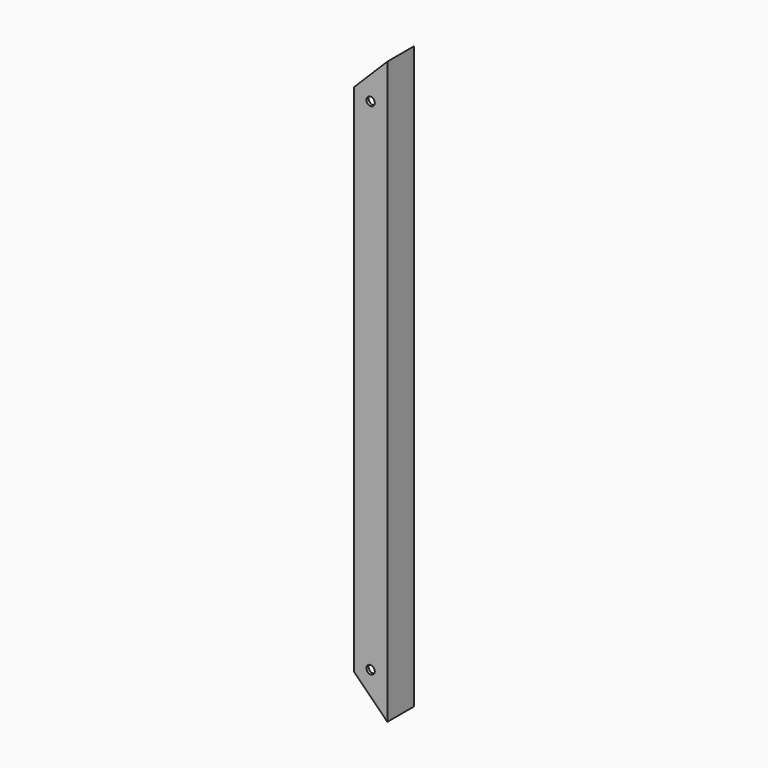
from build123d import *

# Parameters (mm, degrees)
F1_DEPTH = 660.4
F3_DEPTH = 38.101
F4_R     = 4.7625
F5_DEPTH = 38.101


with BuildPart() as f1:
    # F0 (on Top) → F1 (new body)
    with BuildSketch(Plane.XY):
        Polygon((0, 3.175), (0, 0), (38.1, 0), (38.1, 38.1), (34.925, 38.1), (34.925, 3.175), align=None)
    extrude(amount=F1_DEPTH)

    # F2 (on face) → F3 (cut, through all)
    with BuildSketch(Plane.XZ):
        Polygon((0, 622.3), (38.1, 660.4), (0, 660.4), align=None)
        Polygon((0, 0), (38.1, 0), (0, 38.1), align=None)
    extrude(amount=-F3_DEPTH, mode=Mode.SUBTRACT)

    # F4 (on face) → F5 (cut, through all)
    with BuildSketch(Plane.XZ):
        with Locations((19.05, 45.990768)):
            Circle(F4_R)
        with Locations((19.05, 614.409232)):
            Circle(F4_R)
    extrude(amount=-F5_DEPTH, mode=Mode.SUBTRACT)


solid = f1.part
